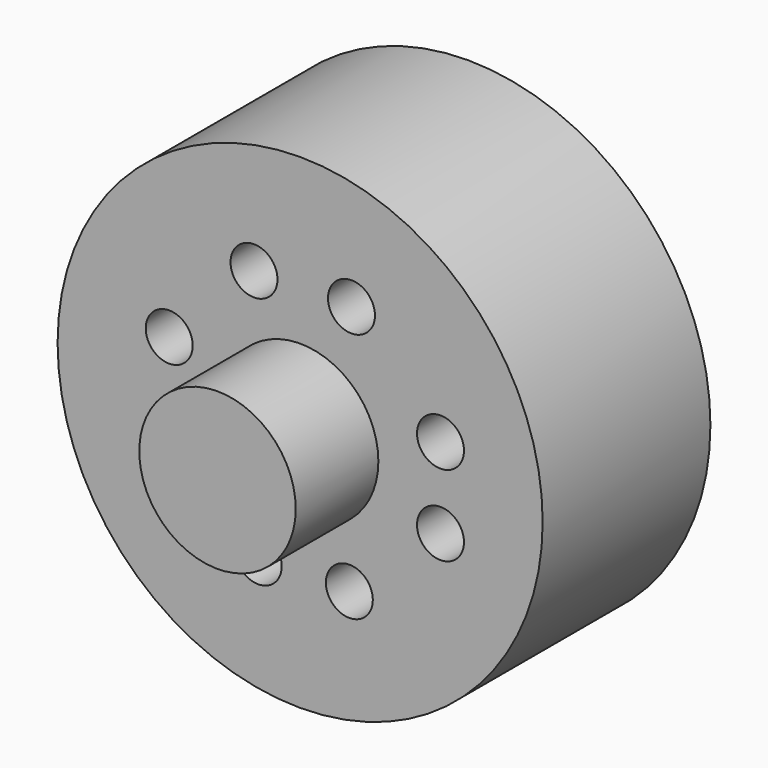
from build123d import *

# Parameters (mm, degrees)
F0_R       = 19.685
F1_DEPTH   = 17.018
F2_R       = 14.605
F3_DEPTH   = 12.7
F4_R       = 1.905
F5_DEPTH   = 21.336
F6_R       = 6.35
F7_DEPTH   = 25.4
F7_FACE_R  = 6.35
F8_DEPTH   = 10.16
F9_R       = 4.445
F10_DEPTH  = 25.4
F10_FACE_R = 4.445
F11_DEPTH  = 7.62


with BuildPart() as f1:
    # F0 (on Front) → F1 (new body)
    with BuildSketch(Plane.XZ):
        Circle(F0_R)
    extrude(amount=F1_DEPTH)

    # F2 (on Front) → F3 (cut)
    with BuildSketch(Plane.XZ):
        Circle(F2_R)
    extrude(amount=F3_DEPTH, mode=Mode.SUBTRACT)

    # F4 (on Front) → F5 (cut)
    with BuildSketch(Plane.XZ):
        with Locations((-3.744667, 10.32798)):
            Circle(F4_R)
        with Locations((-10.624286, 3.362366)):
            Circle(F4_R)
        with Locations((-10.624286, -3.517252)):
            Circle(F4_R)
        with Locations((-3.400686, -10.05289)):
            Circle(F4_R)
        with Locations((3.994903, -10.05289)):
            Circle(F4_R)
        with Locations((11.390493, -3.517252)):
            Circle(F4_R)
        with Locations((4.166894, 10.32798)):
            Circle(F4_R)
        with Locations((11.390493, 3.018385)):
            Circle(F4_R)
    extrude(amount=F5_DEPTH, mode=Mode.SUBTRACT)

    # F6 (on Front) → F7 (join)
    with BuildSketch(Plane.XZ):
        Circle(F6_R)
    extrude(amount=F7_DEPTH)

    # F7_face (on face) → F8 (cut)
    with BuildSketch(Plane(origin=(0, 0, 0), x_dir=(1, 0, 0), z_dir=(0, 1, 0))):
        Circle(F7_FACE_R)
    extrude(amount=-F8_DEPTH, mode=Mode.SUBTRACT)

    # F9 (on Front) → F10 (join)
    with BuildSketch(Plane.XZ):
        Circle(F9_R)
    extrude(amount=F10_DEPTH)

    # F10_face (on face) → F11 (cut)
    with BuildSketch(Plane(origin=(0, 0, 0), x_dir=(1, 0, 0), z_dir=(0, 1, 0))):
        Circle(F10_FACE_R)
    extrude(amount=-F11_DEPTH, mode=Mode.SUBTRACT)


solid = f1.part
